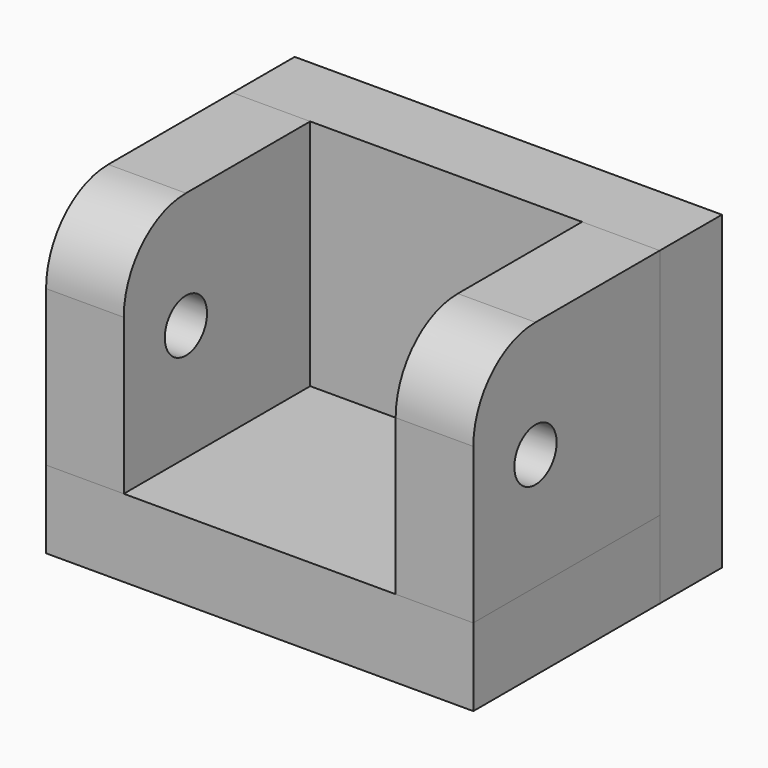
from build123d import *

# Parameters (mm, degrees)
F0_W     = 55
F0_H     = 30
F1_DEPTH = 10
F2_W     = 55
F2_H     = 30
F2_H_2   = 10
F3_DEPTH = 10
F4_W     = 30
F4_H     = 30
F5_DEPTH = 10
F6_R     = 10
F8_D     = 6.8


with BuildPart() as f1:
    # F0 (on Top) → F1 (new body)
    with BuildSketch(Plane.XY):
        Rectangle(F0_W, F0_H)
    extrude(amount=F1_DEPTH)


with BuildPart() as f3:
    # F2 (on face) → F3 (new body)
    with BuildSketch(Plane(origin=(0, 15, 0), x_dir=(-1, 0, 0), z_dir=(0, 1, 0))):
        with Locations((0, 25)):
            Rectangle(F2_W, F2_H)
        with Locations((0, 5)):
            Rectangle(F2_W, F2_H_2)
    extrude(amount=F3_DEPTH)


with BuildPart() as f5:
    # F4 (on face) → F5 (new body)
    with BuildSketch(Plane.YZ.offset(27.5)):
        with Locations((0, 25)):
            Rectangle(F4_W, F4_H)
    extrude(amount=-F5_DEPTH)

    # F6
    f6_edges = [f5.edges().sort_by_distance(p)[0] for p in [
        (22.5, -15, 40),
    ]]
    fillet(f6_edges, radius=F6_R)

    # F8 (through all)
    with Locations(Plane.YZ.offset(27.5)):
        with Locations((-5, 25)):
            Hole(F8_D / 2)


with BuildPart() as f9_1:
    # F9: instance of F5
    add(f5.part.mirror(Plane.YZ))


solid = Compound([f1.part, f3.part, f5.part, f9_1.part])
